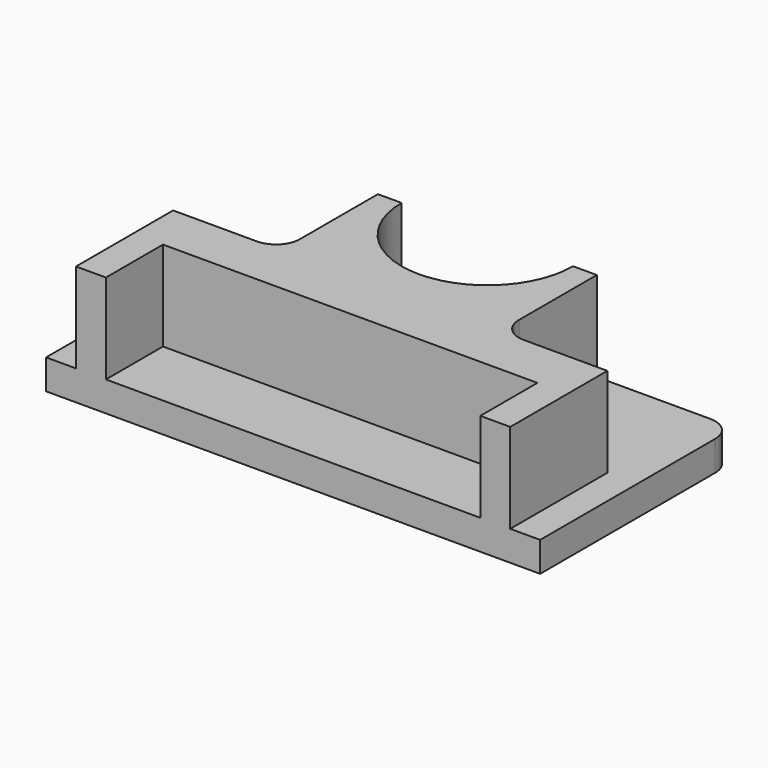
from build123d import *

# Parameters (mm, degrees)
F0_W      = 104.8863008618
F0_H      = 51.5389591455
F1_DEPTH  = 25.4
F2_R      = 5.08
F3_W      = 79.4863008618
F3_H      = 15.1469794668
F4_DEPTH  = 19.05
F6_DEPTH  = 25.4
F7_W      = 6.35
F7_H      = 51.5389591455
F8_DEPTH  = 19.05
F9_W      = 22.86
F9_H      = 25.7694795728
F10_DEPTH = 19.05
F11_R     = 5.08


with BuildPart() as f1:
    # F0 (on Top) → F1 (new body)
    with BuildSketch(Plane.XY):
        Rectangle(F0_W, F0_H)
    extrude(amount=F1_DEPTH)

    # F2
    f2_edges = [f1.edges().sort_by_distance(p)[0] for p in [
        (-52.44315, 25.76948, 12.7),
        (52.44315, 25.76948, 12.7),
    ]]
    fillet(f2_edges, radius=F2_R)

    # F3 (on face) → F4 (cut)
    with BuildSketch(Plane.XY.offset(25.4)):
        with Locations((0, -18.1959898394)):
            Rectangle(F3_W, F3_H)
    extrude(amount=-F4_DEPTH, mode=Mode.SUBTRACT)

    # F5 (on face) → F6 (cut)
    with BuildSketch(Plane.XY.offset(25.4)):
        with BuildLine():
            ThreePointArc((-18.1976626917, 25.7694795728), (0, 7.571816881), (18.1976626917, 25.7694795728))
            Line((18.1976626917, 25.7694795728), (-18.1976626917, 25.7694795728))
        make_face()
    extrude(amount=-F6_DEPTH, mode=Mode.SUBTRACT)

    # F7 (on face) → F8 (cut)
    with BuildSketch(Plane.XY.offset(25.4)):
        with Locations((-49.2681504309, 0)):
            Rectangle(F7_W, F7_H)
        with Locations((49.2681504309, 0)):
            Rectangle(F7_W, F7_H)
    extrude(amount=-F8_DEPTH, mode=Mode.SUBTRACT)

    # F9 (on face) → F10 (cut)
    with BuildSketch(Plane.XY.offset(25.4)):
        with Locations((-34.6631504309, 12.8847397864)):
            Rectangle(F9_W, F9_H)
        with Locations((34.6631504309, 12.8847397864)):
            Rectangle(F9_W, F9_H)
    extrude(amount=-F10_DEPTH, mode=Mode.SUBTRACT)

    # F11
    f11_edges = [f1.edges().sort_by_distance(p)[0] for p in [
        (-23.23315, 0, 15.875),
        (23.23315, 0, 15.875),
    ]]
    fillet(f11_edges, radius=F11_R)


solid = f1.part
